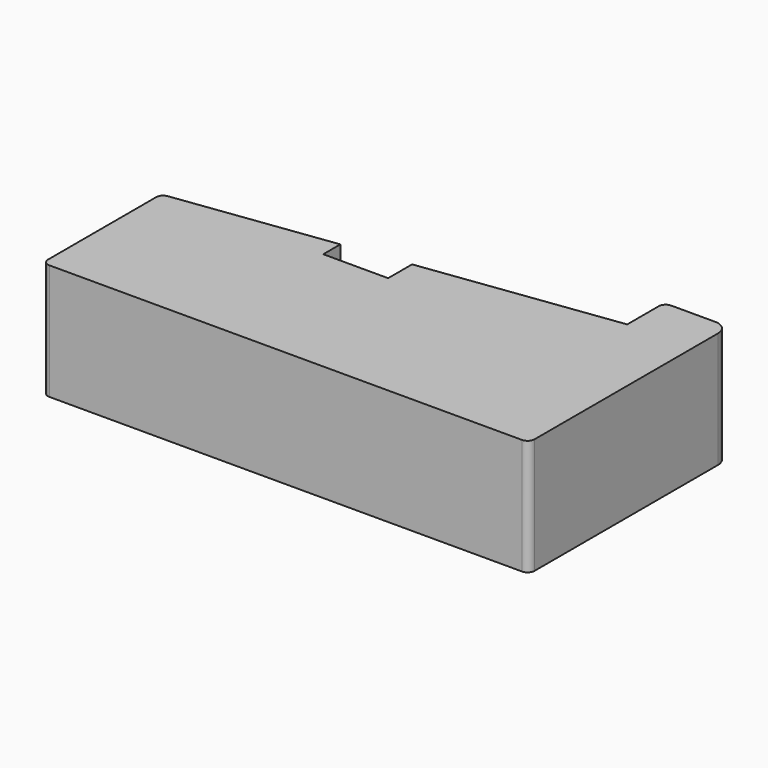
from build123d import *

# Parameters (mm, degrees)
F1_DEPTH = 25


with BuildPart() as f1:
    # F0 (on Top) → F1 (new body)
    with BuildSketch(Plane.XY):
        with BuildLine():
            ThreePointArc((0, 1.5), (0.43934, 0.43934), (1.5, 0))
            Line((1.5, 0), (103.5, 0))
            ThreePointArc((103.5, 0), (104.56066, 0.43934), (105, 1.5))
            Line((105, 1.5), (105, 51))
            ThreePointArc((105, 51), (104.12132, 53.12132), (102, 54))
            Line((102, 54), (92.5, 54))
            ThreePointArc((92.5, 54), (91.43934, 53.56066), (91, 52.5))
            Line((91, 52.5), (91, 44))
            Line((91, 44), (49, 38.461538))
            Line((49, 38.461538), (49, 32))
            Line((49, 32), (35, 32))
            Line((35, 32), (35, 36.615385))
            Line((35, 36.615385), (1.303896, 32.171942))
            ThreePointArc((1.303896, 32.171942), (0.372135, 31.673716), (0, 30.684817))
            Line((0, 30.684817), (0, 1.5))
        make_face()
    extrude(amount=F1_DEPTH)


solid = f1.part
